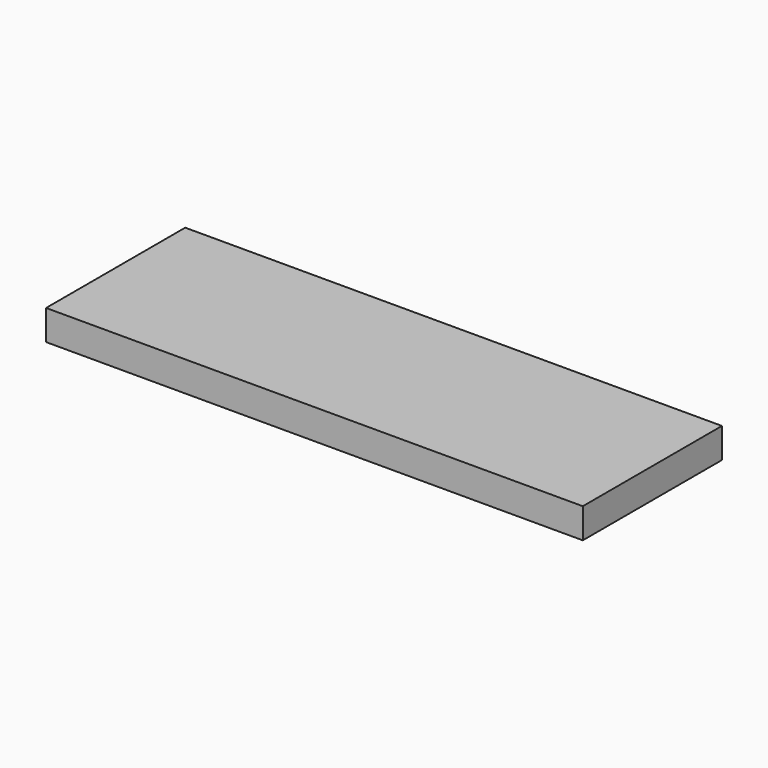
from build123d import *

# Parameters (mm, degrees)
F0_W     = 188
F0_H     = 82
F1_DEPTH = 14
F2_W     = 188
F2_H     = 14
F3_DEPTH = 1
F4_DEPTH = 62


with BuildPart() as f1:
    # F0 (on Top) → F1 (new body)
    with BuildSketch(Plane.XY):
        with Locations((39.4660490155, -19.2813288569)):
            Rectangle(F0_W, F0_H)
    extrude(amount=F1_DEPTH)

    # F2 (on face) → F3 (cut)
    with BuildSketch(Plane.XZ.offset(60.2813288569)):
        with Locations((39.4660490155, 7)):
            Rectangle(F2_W, F2_H)
    extrude(amount=-F3_DEPTH, mode=Mode.SUBTRACT)

    # F4 (add): a face of the model
    f4_faces = [f1.faces().sort_by_distance(p)[0] for p in [
        (133.4660490155, -18.7813288569, 7),
    ]]
    extrude(f4_faces, amount=F4_DEPTH)


solid = f1.part
